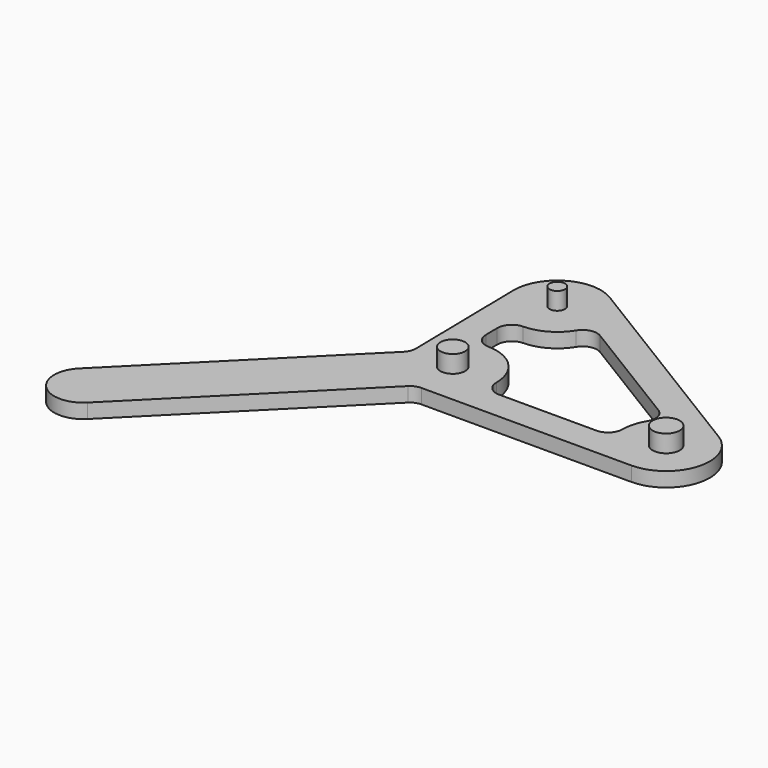
from build123d import *

# Parameters (mm, degrees)
F0_R     = 4.2625
F0_R_2   = 2.675
F0_R_3   = 4.6595
F1_DEPTH = 5
F2_DEPTH = 11


with BuildPart() as f1:
    # F0 (on Top) → F1 (new body)
    with BuildSketch(Plane.XY):
        with BuildLine():
            Line((1.213203, -15), (73.5, -15))
            ThreePointArc((73.5, -15), (87.937651, -4.068689), (81.332308, 12.79277))
            Line((81.332308, 12.79277), (7.832308, 57.79277))
            ThreePointArc((7.832308, 57.79277), (-7.331964, 58.085958), (-15, 45))
            Line((-15, 45), (-14.268491, 2.030544))
            ThreePointArc((-14.268491, 2.030544), (-14.632251, 0.071404), (-15.732233, -1.590097))
            Line((-15.732233, -1.590097), (-77.781746, -63.63961))
            ThreePointArc((-77.781746, -63.63961), (-77.781746, -77.781746), (-63.63961, -77.781746))
            Line((-63.63961, -77.781746), (-2.32233, -16.464466))
            ThreePointArc((-2.32233, -16.464466), (-0.700214, -15.380602), (1.213203, -15))
        make_face()
        Circle(F0_R, mode=Mode.SUBTRACT)
        with Locations((0, 45)):
            Circle(F0_R_2, mode=Mode.SUBTRACT)
        with BuildLine():
            ThreePointArc((-4.656674, 24.917827), (-3.252788, 28.477581), (0.256951, 30.002201))
            ThreePointArc((0.256951, 30.002201), (7.443781, 31.977322), (12.79277, 37.167692))
            ThreePointArc((12.79277, 37.167692), (15.887834, 39.4183), (19.667795, 38.821179))
            Line((19.667795, 38.821179), (59.053743, 14.707334))
            ThreePointArc((59.053743, 14.707334), (61.304351, 11.612269), (60.70723, 7.832308))
            ThreePointArc((60.70723, 7.832308), (59.062349, 4.068689), (58.5, 0))
            ThreePointArc((58.5, 0), (57.035534, -3.535534), (53.5, -5))
            Line((53.5, -5), (20, -5))
            ThreePointArc((20, -5), (16.464466, -3.535534), (15, 0))
            ThreePointArc((15, 0), (10.719452, 10.492538), (0.320887, 14.996567))
            ThreePointArc((0.320887, 14.996567), (-3.115404, 16.467626), (-4.571426, 19.910316))
            Line((-4.571426, 19.910316), (-4.656674, 24.917827))
        make_face(mode=Mode.SUBTRACT)
        with Locations((73.5, 0)):
            Circle(F0_R_3, mode=Mode.SUBTRACT)
    extrude(amount=F1_DEPTH)

    # F0 (on Top) → F2 (join)
    with BuildSketch(Plane.XY):
        with Locations((0, 45)):
            Circle(F0_R_2)
        Circle(F0_R)
        with Locations((73.5, 0)):
            Circle(F0_R_3)
    extrude(amount=F2_DEPTH)


solid = f1.part
